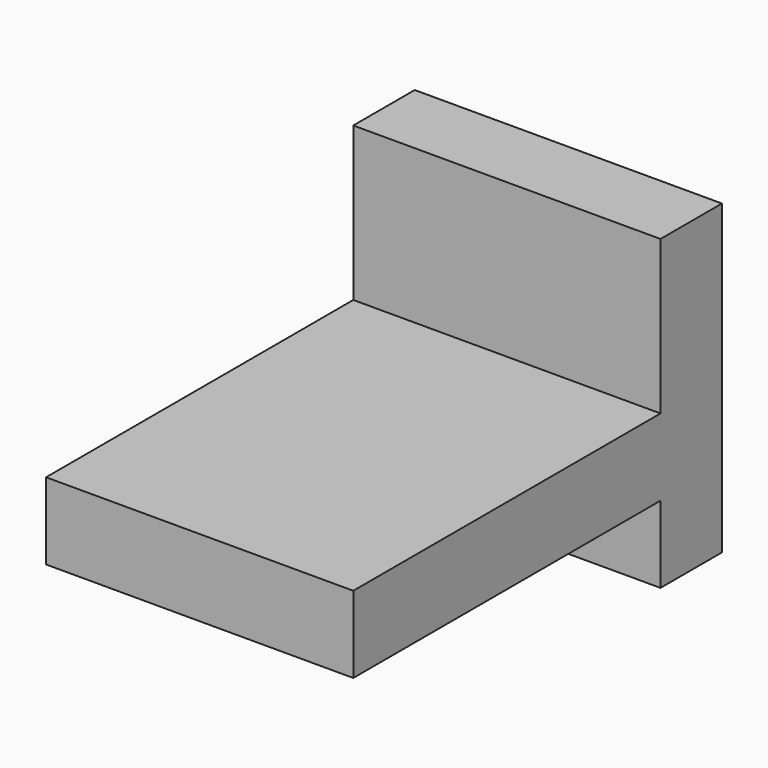
from build123d import *

# Parameters (mm, degrees)
BOX027_W     = 20
BOX027_H     = 30
BOX027_DEPTH = 5
BOX028_W     = 20
BOX028_H     = 5
BOX028_DEPTH = 5
BOX029_W     = 20
BOX029_H     = 5
BOX029_DEPTH = 15


with BuildPart() as cube027:
    # Box027 → Box027 (new body)
    with BuildSketch(Plane(origin=(15, -15, 0), x_dir=(1, 0, 0), z_dir=(0, 0, 1))):
        with Locations((10, 15)):
            Rectangle(BOX027_W, BOX027_H)
    extrude(amount=BOX027_DEPTH)


with BuildPart() as cube028:
    # Box028 → Box028 (new body)
    with BuildSketch(Plane(origin=(15, 10, -5), x_dir=(1, 0, 0), z_dir=(0, 0, 1))):
        with Locations((10, 2.5)):
            Rectangle(BOX028_W, BOX028_H)
    extrude(amount=BOX028_DEPTH)


with BuildPart() as fusion020006007003002009018004004:
    # Box029 → Box029 (new body)
    with BuildSketch(Plane(origin=(15, 10, 0), x_dir=(1, 0, 0), z_dir=(0, 0, 1))):
        with Locations((10, 2.5)):
            Rectangle(BOX029_W, BOX029_H)
    extrude(amount=BOX029_DEPTH)

    # Fusion020006007003002009018004004: union Cube027, Cube028
    add(cube027.part)
    add(cube028.part)


solid = fusion020006007003002009018004004.part
